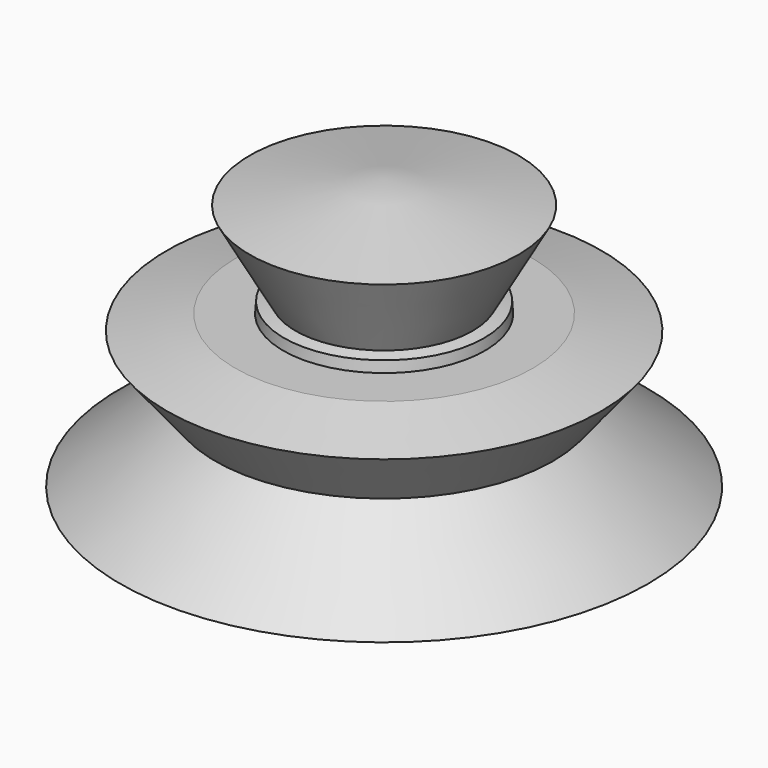
from build123d import *


with BuildPart() as f1:
    # F0 (on Front) → F1 (revolve)
    with BuildSketch(Plane.XZ):
        Polygon((27.708905, 51.024929), (0, 55.75572), (0, 0), (54.404069, 0), (34.805086, 15.881931), (44.796481, 28.211742), (18.247325, 34.129258), align=None)
    revolve(axis=Axis((0, 0, 27.87786), (0, 0, -1)))

    # F2 (on Right) → F3 (revolve, cut)
    with BuildSketch(Plane.YZ):
        Polygon((-20.794654, 31.364221), (-20.621512, 33.615056), (-31.009976, 31.364221), align=None)
    revolve(axis=Axis((0, 0, 28.211742), (0, 0, -1)), mode=Mode.SUBTRACT)


solid = f1.part
